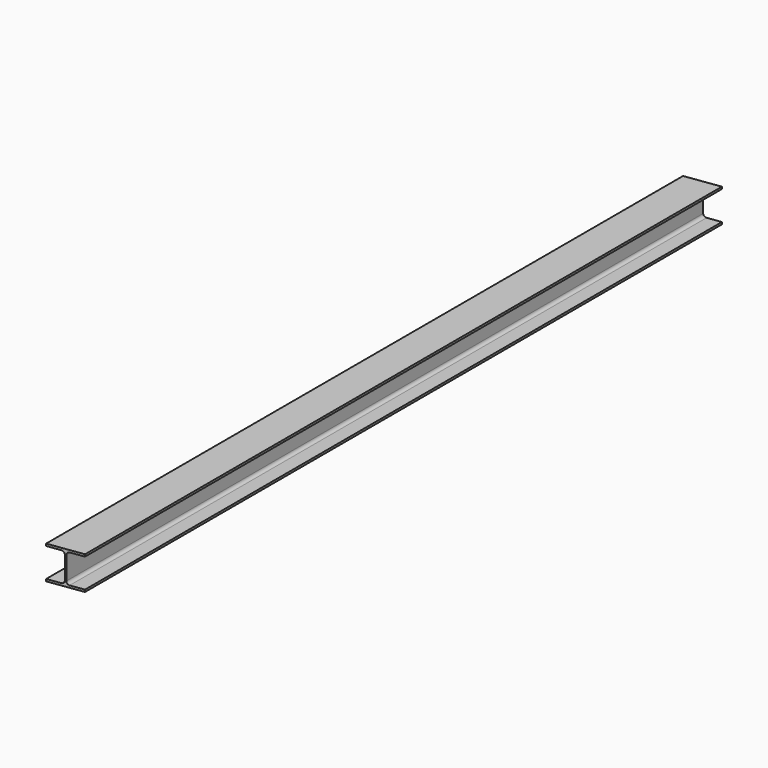
from build123d import *

# Parameters (mm, degrees)
F1_DEPTH = 4170
F3_DEPTH = 200


with BuildPart() as f1:
    # F0 (on Front) → F1 (new body)
    with BuildSketch(Plane.XZ):
        with BuildLine():
            Line((-90.2201094776, -30.1358679575), (-90.2201094776, -38.6358679575))
            Line((-90.2201094776, -38.6358679575), (49.7798905224, -38.6358679575))
            Line((49.7798905224, -38.6358679575), (49.7798905224, -30.1358679575))
            Line((49.7798905224, -30.1358679575), (-5.4701094776, -30.1358679575))
            ThreePointArc((-5.4701094776, -30.1358679575), (-13.9553908519, -26.6211493317), (-17.4701094776, -18.1358679575))
            Line((-17.4701094776, -18.1358679575), (-17.4701094776, 73.8641320425))
            ThreePointArc((-17.4701094776, 73.8641320425), (-13.9553908519, 82.3494134168), (-5.4701094776, 85.8641320425))
            Line((-5.4701094776, 85.8641320425), (49.7798905224, 85.8641320425))
            Line((49.7798905224, 85.8641320425), (49.7798905224, 94.3641320425))
            Line((49.7798905224, 94.3641320425), (-90.2201094776, 94.3641320425))
            Line((-90.2201094776, 94.3641320425), (-90.2201094776, 85.8641320425))
            Line((-90.2201094776, 85.8641320425), (-34.9701094776, 85.8641320425))
            ThreePointArc((-34.9701094776, 85.8641320425), (-26.4848281034, 82.3494134168), (-22.9701094776, 73.8641320425))
            Line((-22.9701094776, 73.8641320425), (-22.9701094776, -18.1358679575))
            ThreePointArc((-22.9701094776, -18.1358679575), (-26.4848281034, -26.6211493317), (-34.9701094776, -30.1358679575))
            Line((-34.9701094776, -30.1358679575), (-90.2201094776, -30.1358679575))
        make_face()
    extrude(amount=F1_DEPTH)

    # F2 (on face) → F3 (cut)
    with BuildSketch(Plane.XY.offset(94.3641320425)):
        Polygon((49.7798905224, -4150.3242831417), (-90.2201094776, -4170), (49.7798905224, -4170), align=None)
        Polygon((-90.2201094776, 0), (-90.2201094776, -985.0038362763), (49.7798905224, -965.3281194179), (49.7798905224, 0), align=None)
    extrude(amount=-F3_DEPTH, mode=Mode.SUBTRACT)


solid = f1.part
